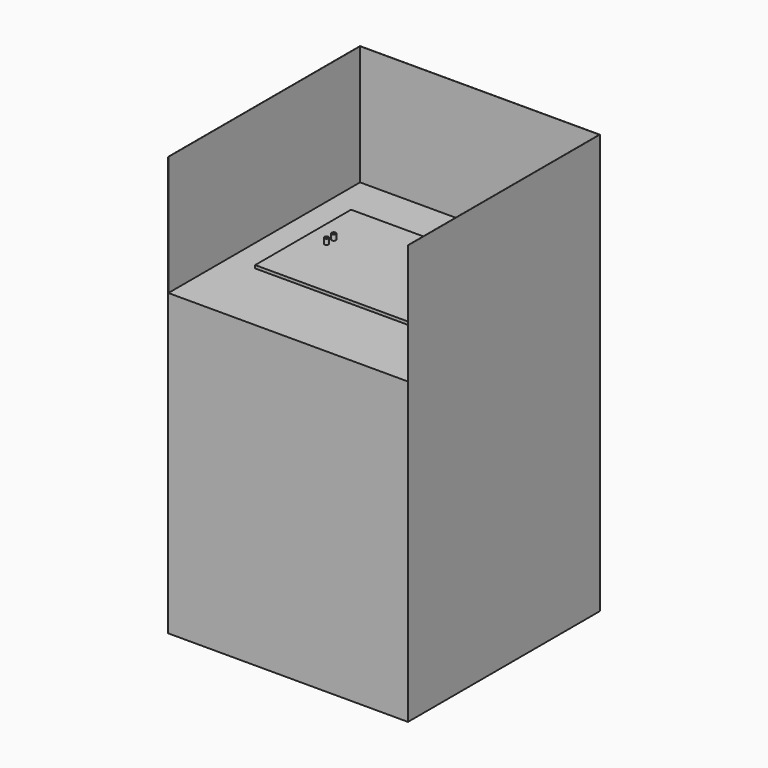
from build123d import *

# Parameters (mm, degrees)
F0_W     = 400
F0_H     = 500
F1_DEPTH = 400
F3_DEPTH = 200
F4_W     = 309.5
F4_H     = 200
F5_DEPTH = 1
F6_DEPTH = 5
F8_R     = 3.5
F9_DEPTH = 9
F11_D    = 5
F13_D    = 5


with BuildPart() as f1:
    # F0 (on Front) → F1 (new body)
    with BuildSketch(Plane.XZ):
        with Locations((-200, 250)):
            Rectangle(F0_W, F0_H)
    extrude(amount=F1_DEPTH)

    # F2 (on face) → F3 (join)
    with BuildSketch(Plane.XY.offset(500)):
        Polygon((-399.75, 0), (-400, 0), (-400, -0.25), (-400, -400), (-399.75, -400), (-399.75, -0.25), (-0.25, -0.25), (-0.25, -400), (0, -400), (0, -0.25), (0, 0), (-0.25, 0), align=None)
    extrude(amount=F3_DEPTH)

    # F4 (on face) → F5 (join)
    with BuildSketch(Plane.XY.offset(500)):
        with Locations((-200, -175.25)):
            Rectangle(F4_W, F4_H)
    extrude(amount=F5_DEPTH)

    # F4 (on face) → F6 (join)
    with BuildSketch(Plane.XY.offset(500)):
        with Locations((-200, -175.25)):
            Rectangle(F4_W, F4_H)
    extrude(amount=F6_DEPTH)

    # F8 (on face) → F9 (join)
    with BuildSketch(Plane.XY.offset(505)):
        with Locations((-319.801312, -155.25)):
            Circle(F8_R)
        with Locations((-319.801312, -170.25)):
            Circle(F8_R)
    extrude(amount=F9_DEPTH)

    # F11 (through all)
    with Locations(Plane.XY.offset(514)):
        with Locations((-319.801312, -155.25)):
            Hole(F11_D / 2)

    # F13 (through all)
    with Locations(Plane.XY.offset(514)):
        with Locations((-319.801312, -170.25)):
            Hole(F13_D / 2)


solid = f1.part
